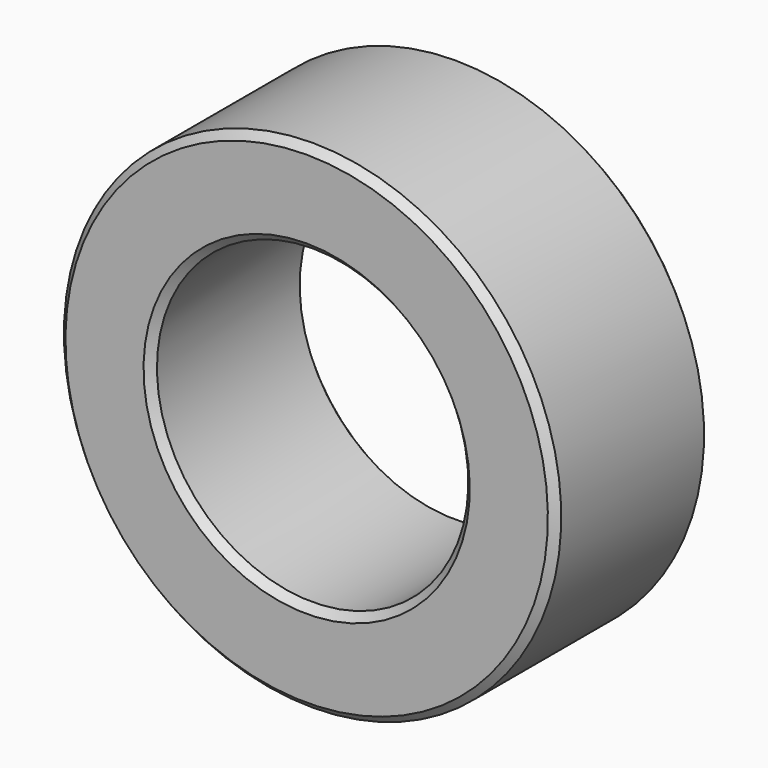
from build123d import *

# Parameters (mm, degrees)
F0_W    = 9.906
F0_H    = 4.7625
F2_SIZE = 0.381


with BuildPart() as f1:
    # F0 (on Right) → F1 (revolve)
    with BuildSketch(Plane.YZ):
        with Locations((4.953, 10.35685)):
            Rectangle(F0_W, F0_H)
    revolve(axis=Axis((0, 3.091772, 0), (0, 1, 0)))

    # F2
    f2_edges = [f1.edges().sort_by_distance(p)[0] for p in [
        (0, 9.906, -12.7381),
        (0, 0, -12.7381),
        (0, 4.953, 12.7381),
        (0, 0, -7.9756),
        (0, 9.906, -7.9756),
        (0, 4.953, 7.9756),
    ]]
    chamfer(f2_edges, length=F2_SIZE)


solid = f1.part
